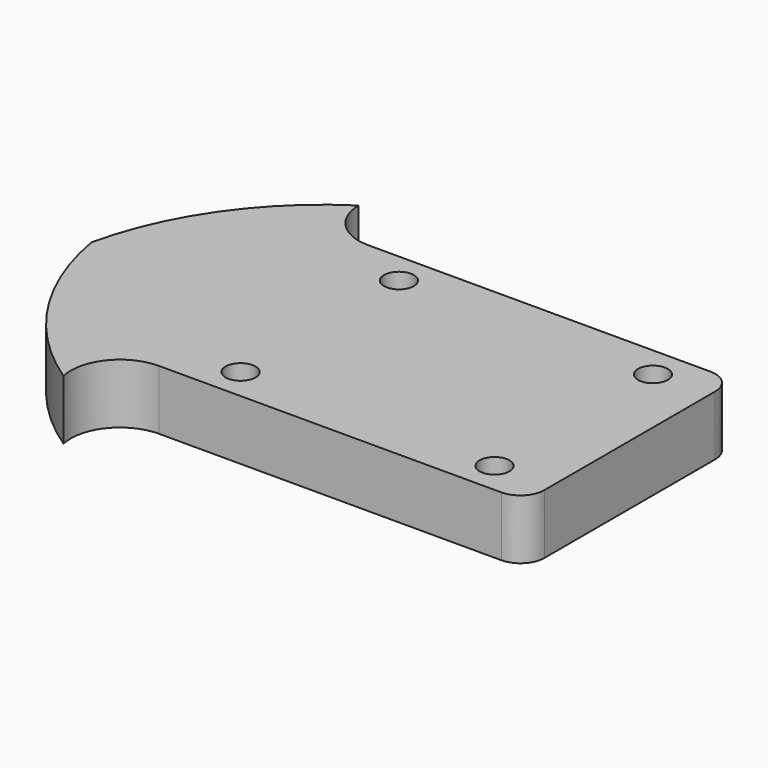
from build123d import *

# Parameters (mm, degrees)
F0_R     = 3.175
F1_DEPTH = 12.7
F2_R     = 5.08


with BuildPart() as f1:
    # F0 (on Top) → F1 (new body)
    with BuildSketch(Plane.XY):
        with BuildLine():
            Line((-38.706773, -27.646467), (39.080727, -27.646467))
            Line((39.080727, -27.646467), (39.080727, 27.916033))
            Line((39.080727, 27.916033), (-38.706773, 27.916033))
            ThreePointArc((-38.706773, 27.916033), (-45.890978, 30.891828), (-48.866773, 38.076033))
            ThreePointArc((-48.866773, 38.076033), (-65.787323, 21.629454), (-75.219273, 0))
            ThreePointArc((-75.219273, 0), (-66.185927, -22.879192), (-48.866773, -40.346467))
            ThreePointArc((-48.866773, -40.346467), (-46.838741, -31.554893), (-38.706773, -27.646467))
        make_face()
        with Locations((-26.800523, -20.899592)):
            Circle(F0_R, mode=Mode.SUBTRACT)
        with Locations((27.174477, -20.899592)):
            Circle(F0_R, mode=Mode.SUBTRACT)
        with Locations((-26.800523, 21.169158)):
            Circle(F0_R, mode=Mode.SUBTRACT)
        with Locations((27.174477, 21.169158)):
            Circle(F0_R, mode=Mode.SUBTRACT)
    extrude(amount=F1_DEPTH)

    # F2
    f2_edges = [f1.edges().sort_by_distance(p)[0] for p in [
        (39.080727, -27.646467, 6.35),
        (39.080727, 27.916033, 6.35),
    ]]
    fillet(f2_edges, radius=F2_R)


solid = f1.part
